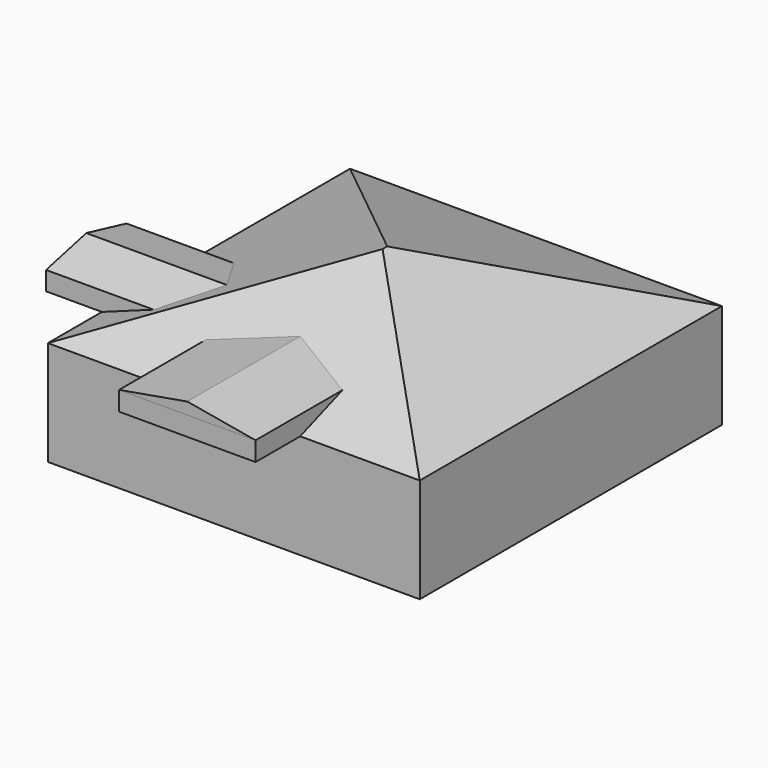
from build123d import *

# Parameters (mm, degrees)
F0_W      = 27.0933350548
F0_H      = 27.5166667998
F1_DEPTH  = 7.62
F3_DEPTH  = 6.35
F3_TAPER  = 70
F5_DEPTH  = 5.842
F6_DEPTH  = 4.064
F8_DEPTH  = 13.081
F10_DEPTH = 7.874
F12_DEPTH = 4.064
F14_DEPTH = 1.778


with BuildPart() as f1:
    # F0 (on Top) → F1 (new body)
    with BuildSketch(Plane.XY):
        with Locations((-0.1058331691, -0.3174999729)):
            Rectangle(F0_W, F0_H)
    extrude(amount=F1_DEPTH)

    # F2 (on face) → F3 (join)
    with BuildSketch(Plane.XY.offset(7.62)):
        Polygon((13.4408343583, -14.0758333728), (13.4408343583, 13.440833427), (0, 0), align=None)
        Polygon((13.4408343583, 13.440833427), (-13.6525006965, 13.440833427), (0, 0), align=None)
        Polygon((0, 0), (-13.6525006965, 13.440833427), (-13.6525006965, -14.0758333728), align=None)
        Polygon((0, 0), (-13.6525006965, -14.0758333728), (13.4408343583, -14.0758333728), align=None)
    extrude(amount=F3_DEPTH, taper=F3_TAPER)

    # F9 (on face) → F10 (join)
    with BuildSketch(Plane(origin=(-13.6525006965, 0, 0), x_dir=(0, -1, 0), z_dir=(-1, 0, 0))):
        Polygon((1.8315333873, 8.9923394844), (9.157451801, 8.9923394844), (5.4944925942, 9.8676439375), align=None)
        Polygon((1.8315333873, 7.62), (1.9266750896, 7.62), (9.157451801, 7.62), (9.157451801, 8.9923394844), (1.8315333873, 8.9923394844), align=None)
    extrude(amount=-F10_DEPTH)

    # F11 (on face) → F12 (join)
    with BuildSketch(Plane(origin=(-13.6525006965, 0, 0), x_dir=(0, -1, 0), z_dir=(-1, 0, 0))):
        Polygon((1.8315333873, 8.9923394844), (1.8315333873, 7.62), (9.157451801, 7.62), (9.157451801, 8.9923394844), (5.4944925942, 9.8676439375), align=None)
    extrude(amount=F12_DEPTH)

    # F13 (on face) → F14 (join)
    with BuildSketch(Plane(origin=(0, 13.440833427, 0), x_dir=(-1, 0, 0), z_dir=(0, 1, 0))):
        Polygon((-10.1791918278, 4.2360839434), (-11.6112688556, 3.599605523), (-8.7471147999, 3.599605523), align=None)
    extrude(amount=F14_DEPTH)


with BuildPart() as f5:
    # F4 (on face) → F5 (new body)
    with BuildSketch(Plane.XZ.offset(14.0758333728)):
        Polygon((-5.2116154693, 7.62), (4.0088039823, 7.62), (4.730687011, 7.62), (4.730687011, 9.0190730989), (4.0088039823, 9.0190730989), (3.6806750577, 9.0190730989), (-5.2116154693, 9.0190730989), align=None)
        Polygon((-5.2116154693, 7.62), (4.0088039823, 7.62), (4.730687011, 7.62), (4.730687011, 9.0190730989), (4.0088039823, 9.0190730989), (3.6806750577, 9.0190730989), (-5.2116154693, 9.0190730989), align=None)
    extrude(amount=-F5_DEPTH)

    # F6 (add): a face of the model
    f6_faces = [f5.faces().sort_by_distance(p)[0] for p in [
        (-0.2404642291, -14.0758333728, 8.3195365494),
    ]]
    extrude(f6_faces, amount=F6_DEPTH)


with BuildPart() as f8:
    # F7 (on face) → F8 (new body)
    with BuildSketch(Plane.XZ.offset(18.1398333728)):
        Polygon((-0.2404642291, 9.8863374442), (-5.2116154693, 9.0190730989), (4.730687011, 9.0190730989), align=None)
    extrude(amount=-F8_DEPTH)


solid = Compound([f1.part, f5.part, f8.part])
